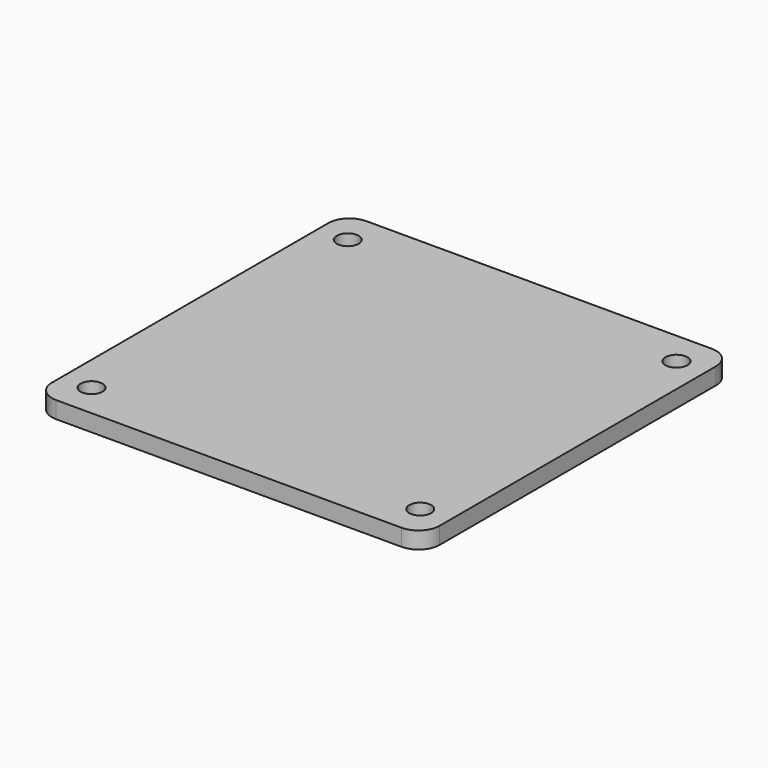
from build123d import *

# Parameters (mm, degrees)
SKETCH036_W     = 92
SKETCH036_H     = 92
PAD022_DEPTH    = 4
SKETCH037_R     = 2.6
POCKET012_DEPTH = 4.001
FILLET001_R     = 5


with BuildPart() as part:
    # Sketch036 → Pad022 (new body)
    with BuildSketch(Plane.XY):
        Rectangle(SKETCH036_W, SKETCH036_H)
    extrude(amount=PAD022_DEPTH)

    # Sketch037 (on Face6 of Pad022) → Pocket012 (cut, through all)
    with BuildSketch(Plane.XY.offset(4)):
        with Locations((-39, 38)):
            Circle(SKETCH037_R)
        with Locations((-39, -38)):
            Circle(SKETCH037_R)
        with Locations((39, -38)):
            Circle(SKETCH037_R)
        with Locations((39, 38)):
            Circle(SKETCH037_R)
    extrude(amount=-POCKET012_DEPTH, mode=Mode.SUBTRACT)

    # Fillet001
    fillet001_edges = [part.edges().sort_by_distance(p)[0] for p in [
        (46, -46, 2),
        (-46, -46, 2),
        (-46, 46, 2),
        (46, 46, 2),
    ]]
    fillet(fillet001_edges, radius=FILLET001_R)


solid = part.part
